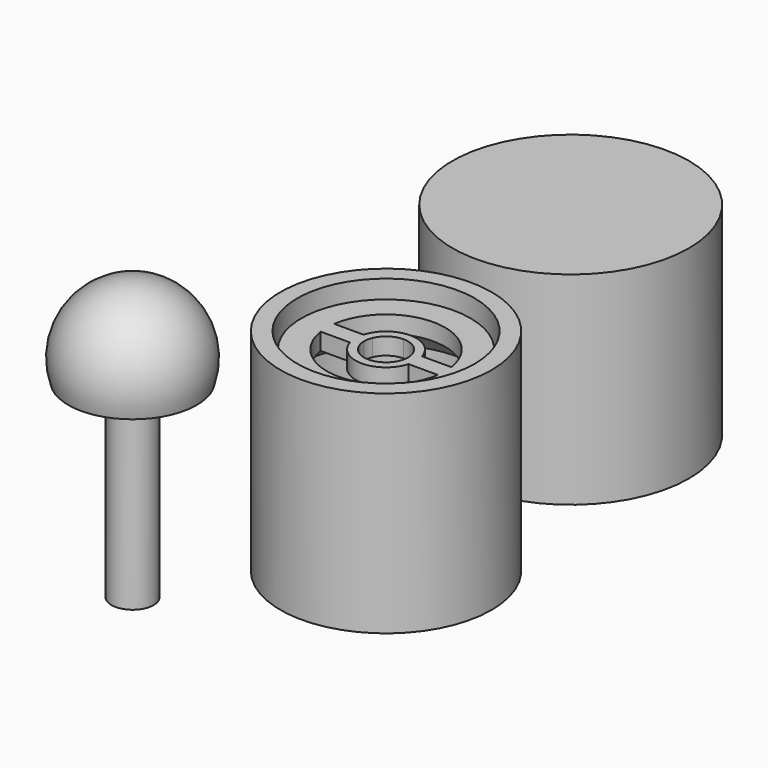
from build123d import *

# Parameters (mm, degrees)
F0_R      = 2.5
F1_DEPTH  = 12.5
F4_R      = 12.5
F4_R_2    = 5
F5_DEPTH  = 2
F8_R      = 10
F8_R_2    = 7.5
F9_DEPTH  = 2
F10_R     = 14
F11_DEPTH = 24
F12_T     = -2.5
F13_R     = 4.25
F13_R_2   = 2.75
F14_DEPTH = 15


with BuildPart() as f1:
    # F0 (on Top) → F1 (new body, symmetric)
    with BuildSketch(Plane.XY):
        Circle(F0_R)
    extrude(amount=F1_DEPTH, both=True)

    # F2 (on Right) → F3 (revolve)
    with BuildSketch(Plane.YZ):
        with BuildLine():
            Line((0, 10), (7.5993420768, 10))
            ThreePointArc((7.5993420768, 10), (6.4807406984, 17.1904157598), (0, 20.5))
            Line((0, 20.5), (0, 10))
        make_face()
    revolve(axis=Axis((0, 0, 15.25), (0, 0, 1)))


with BuildPart() as f5:
    # F4 (on Top) → F5 (new body)
    with BuildSketch(Plane.XY):
        with Locations((30, 0)):
            Circle(F4_R)
        with Locations((30, 0)):
            Circle(F4_R_2, mode=Mode.SUBTRACT)
    extrude(amount=F5_DEPTH)

    # F6 (on Front) → F7 (revolve)
    with BuildSketch(Plane.XZ):
        Polygon((40.5, 18.0880711675), (40.5, 0), (42.5, 0), (42.5, 25), (40.5, 25), (40.5, 21.0880711675), align=None)
        Polygon((37.5, 21.0880711675), (40.5, 18.0880711675), (40.5, 21.0880711675), align=None)
    revolve(axis=Axis((30, 0, 13.9748398215), (0, 0, 1)))


with BuildPart() as f9:
    # F8 (on face) → F9 (new body)
    with BuildSketch(Plane.XY.offset(21.0880711675)):
        with Locations((30, 0)):
            Circle(F8_R)
        with Locations((30, 0)):
            Circle(F8_R_2, mode=Mode.SUBTRACT)
        with Locations((30, 0)):
            Circle(F8_R)
        with Locations((30, 0)):
            Circle(F8_R_2, mode=Mode.SUBTRACT)
        with Locations((30, 0)):
            Circle(F8_R_2)
        with BuildLine():
            ThreePointArc((36.9282032303, 1), (36.982027736, 0.5012870376), (37, 0))
            ThreePointArc((37, 0), (36.982027736, -0.5012870376), (36.9282032303, -1))
            ThreePointArc((36.9282032303, -1), (30, -7), (23.0717967697, -1))
            ThreePointArc((23.0717967697, -1), (23.017972264, -0.5012870376), (23, 0))
            ThreePointArc((23, 0), (23.017972264, 0.5012870376), (23.0717967697, 1))
            ThreePointArc((23.0717967697, 1), (25.417424305, 5.2915026221), (30, 7))
            ThreePointArc((30, 7), (34.582575695, 5.2915026221), (36.9282032303, 1))
        make_face(mode=Mode.SUBTRACT)
        with BuildLine():
            ThreePointArc((26.5416767068, -1), (30, -3.6), (33.4583232932, -1))
            Line((33.4583232932, -1), (32.4, -1))
            ThreePointArc((32.4, -1), (30, -2.6), (27.6, -1))
            Line((27.6, -1), (26.5416767068, -1))
        make_face()
        with BuildLine():
            ThreePointArc((36.9282032303, -1), (36.982027736, -0.5012870376), (37, 0))
            ThreePointArc((37, 0), (36.982027736, 0.5012870376), (36.9282032303, 1))
            Line((36.9282032303, 1), (33.4583232932, 1))
            ThreePointArc((33.4583232932, 1), (33.564404849, 0.5049931409), (33.6, 0))
            ThreePointArc((33.6, 0), (33.564404849, -0.5049931409), (33.4583232932, -1))
            Line((33.4583232932, -1), (36.9282032303, -1))
        make_face()
        with BuildLine():
            Line((30, 2.6), (30, 3.6))
            ThreePointArc((30, 3.6), (27.8366692347, 2.877498914), (26.5416767068, 1))
            Line((26.5416767068, 1), (27.6, 1))
            ThreePointArc((27.6, 1), (28.5577794898, 2.1633307653), (30, 2.6))
        make_face()
        with BuildLine():
            Line((32.4, 1), (33.4583232932, 1))
            ThreePointArc((33.4583232932, 1), (32.1633307653, 2.877498914), (30, 3.6))
            Line((30, 3.6), (30, 2.6))
            ThreePointArc((30, 2.6), (31.4422205102, 2.1633307653), (32.4, 1))
        make_face()
        with BuildLine():
            ThreePointArc((23, 0), (23.017972264, -0.5012870376), (23.0717967697, -1))
            Line((23.0717967697, -1), (26.5416767068, -1))
            ThreePointArc((26.5416767068, -1), (26.435595151, -0.5049931409), (26.4, 0))
            Line((26.4, 0), (23, 0))
        make_face()
        with BuildLine():
            Line((26.5416767068, 1), (23.0717967697, 1))
            ThreePointArc((23.0717967697, 1), (23.017972264, 0.5012870376), (23, 0))
            Line((23, 0), (26.4, 0))
            ThreePointArc((26.4, 0), (26.435595151, 0.5049931409), (26.5416767068, 1))
        make_face()
        with BuildLine():
            ThreePointArc((23, 0), (23.017972264, -0.5012870376), (23.0717967697, -1))
            Line((23.0717967697, -1), (26.5416767068, -1))
            ThreePointArc((26.5416767068, -1), (26.435595151, -0.5049931409), (26.4, 0))
            Line((26.4, 0), (23, 0))
        make_face()
        with BuildLine():
            Line((26.5416767068, 1), (23.0717967697, 1))
            ThreePointArc((23.0717967697, 1), (23.017972264, 0.5012870376), (23, 0))
            Line((23, 0), (26.4, 0))
            ThreePointArc((26.4, 0), (26.435595151, 0.5049931409), (26.5416767068, 1))
        make_face()
        with BuildLine():
            ThreePointArc((33.6, 0), (33.564404849, 0.5049931409), (33.4583232932, 1))
            Line((33.4583232932, 1), (32.4, 1))
            ThreePointArc((32.4, 1), (32.5495097568, 0.5099019514), (32.6, 0))
            ThreePointArc((32.6, 0), (32.5495097568, -0.5099019514), (32.4, -1))
            Line((32.4, -1), (33.4583232932, -1))
            ThreePointArc((33.4583232932, -1), (33.564404849, -0.5049931409), (33.6, 0))
        make_face()
        with BuildLine():
            Line((27.6, 1), (26.5416767068, 1))
            ThreePointArc((26.5416767068, 1), (26.435595151, 0.5049931409), (26.4, 0))
            Line((26.4, 0), (27.4, 0))
            ThreePointArc((27.4, 0), (27.4504902432, 0.5099019514), (27.6, 1))
        make_face()
        with BuildLine():
            ThreePointArc((26.4, 0), (26.435595151, -0.5049931409), (26.5416767068, -1))
            Line((26.5416767068, -1), (27.6, -1))
            ThreePointArc((27.6, -1), (27.4504902432, -0.5099019514), (27.4, 0))
            Line((27.4, 0), (26.4, 0))
        make_face()
    extrude(amount=F9_DEPTH)


with BuildPart() as f11:
    # F10 (on Top) → F11 (new body)
    with BuildSketch(Plane.XY):
        with Locations((26.310486719, 31.9354832172)):
            Circle(F10_R)
    extrude(amount=F11_DEPTH)

    # F12
    f12_openings = [f11.faces().sort_by_distance(p)[0] for p in [
        (26.310487, 31.935483, 0),
    ]]
    offset(amount=F12_T, openings=f12_openings)

    # F13 (on face) → F14 (join)
    with BuildSketch(Plane(origin=(0, 0, 21.5), x_dir=(1, 0, 0), z_dir=(0, 0, -1))):
        with Locations((26.310486719, -31.9354832172)):
            Circle(F13_R)
        with Locations((26.310486719, -31.9354832172)):
            Circle(F13_R_2, mode=Mode.SUBTRACT)
    extrude(amount=F14_DEPTH)


solid = Compound([f1.part, f5.part, f9.part, f11.part])
